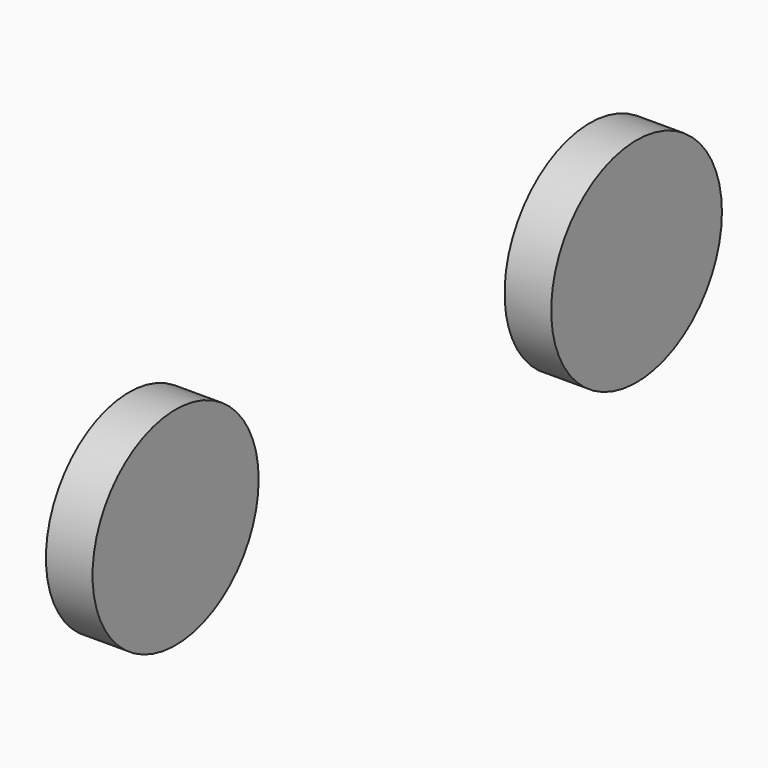
from build123d import *

# Parameters (mm, degrees)
F1_R     = 15.268164
F2_DEPTH = 6.858
F3_R     = 15.691957
F4_DEPTH = 6.858


with BuildPart() as f2:
    # F1 (on face) → F2 (new body)
    with BuildSketch(Plane.YZ):
        with Locations((-53.182002, 15.452168)):
            Circle(F1_R)
    extrude(amount=F2_DEPTH)


with BuildPart() as f4:
    # F3 (on face) → F4 (new body)
    with BuildSketch(Plane.YZ):
        with Locations((31.567927, 15.452168)):
            Circle(F3_R)
    extrude(amount=F4_DEPTH)


solid = Compound([f2.part, f4.part])
